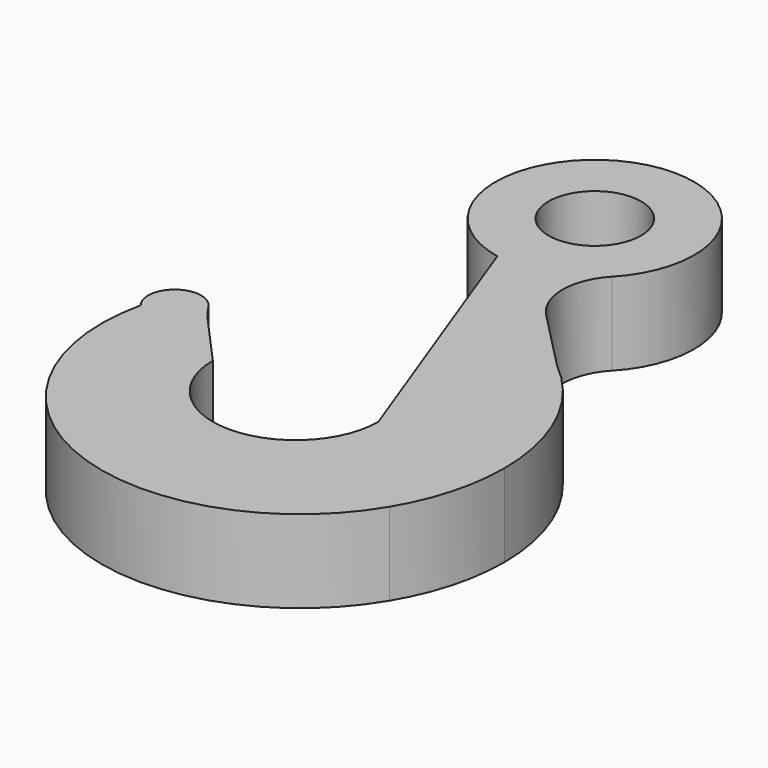
from build123d import *

# Parameters (mm, degrees)
F0_R     = 14
F1_DEPTH = 25


with BuildPart() as f1:
    # F0 (on Top) → F1 (new body)
    with BuildSketch(Plane.XY):
        with BuildLine():
            ThreePointArc((21.863849, -5.004198), (16.734289, 7.468286), (21.708714, 20.003449))
            ThreePointArc((21.708714, 20.003449), (-9.013445, 69.323231), (-5.922247, 11.299646))
            Line((-5.922247, 11.299646), (1.68415, -9.262297))
            Line((1.68415, -9.262297), (25, -72.290713))
            ThreePointArc((25, -72.290713), (0, -97.290713), (-25, -72.290713))
            Line((-25, -72.290713), (-38.807588, -56.926059))
            ThreePointArc((-38.807588, -56.926059), (-41.028289, -54.254293), (-43.036256, -51.419171))
            ThreePointArc((-43.036256, -51.419171), (-54.45074, -49.322706), (-55.948149, -60.831111))
            ThreePointArc((-55.948149, -60.831111), (-19.496759, -129.623891), (54.195657, -104.512574))
            ThreePointArc((54.195657, -104.512574), (60.796806, -88.998974), (63.050913, -72.290713))
            ThreePointArc((63.050913, -72.290713), (56.997606, -45.333515), (40, -23.552457))
            Line((40, -23.552457), (21.863849, -5.004198))
        make_face()
        with Locations((0, 40.709287)):
            Circle(F0_R, mode=Mode.SUBTRACT)
    extrude(amount=F1_DEPTH)


solid = f1.part
